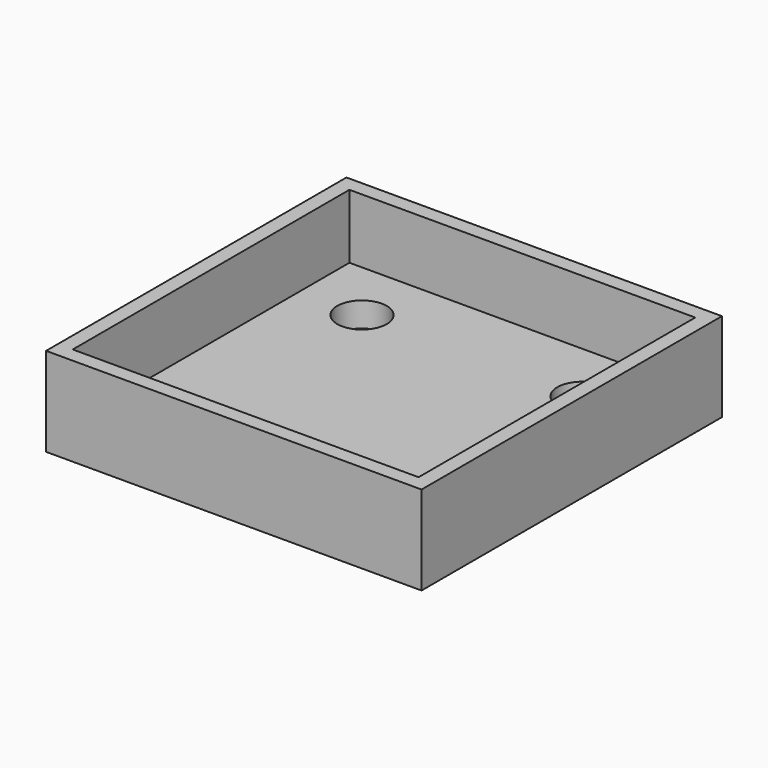
from build123d import *

# Parameters (mm, degrees)
F0_W     = 96.52
F0_H     = 96.52
F1_DEPTH = 6.35
F2_W     = 96.52
F2_H     = 96.52
F2_W_2   = 88.9
F2_H_2   = 88.9
F3_DEPTH = 16.51
F4_R     = 6.35
F5_DEPTH = 6.351


with BuildPart() as f1:
    # F0 (on Top) → F1 (new body)
    with BuildSketch(Plane.XY):
        with Locations((48.26, 48.26)):
            Rectangle(F0_W, F0_H)
    extrude(amount=F1_DEPTH)

    # F2 (on face) → F3 (join)
    with BuildSketch(Plane.XY.offset(6.35)):
        with Locations((48.26, 48.26)):
            Rectangle(F2_W, F2_H)
        with Locations((48.26, 48.26)):
            Rectangle(F2_W_2, F2_H_2, mode=Mode.SUBTRACT)
    extrude(amount=F3_DEPTH)

    # F4 (on face) → F5 (cut, through all)
    with BuildSketch(Plane.XY.offset(6.35)):
        with Locations((19.974461, 76.545539)):
            Circle(F4_R)
        with Locations((19.974461, 19.974461)):
            Circle(F4_R)
        with Locations((76.545539, 19.974461)):
            Circle(F4_R)
        with Locations((76.545539, 76.545539)):
            Circle(F4_R)
    extrude(amount=-F5_DEPTH, mode=Mode.SUBTRACT)


solid = f1.part
